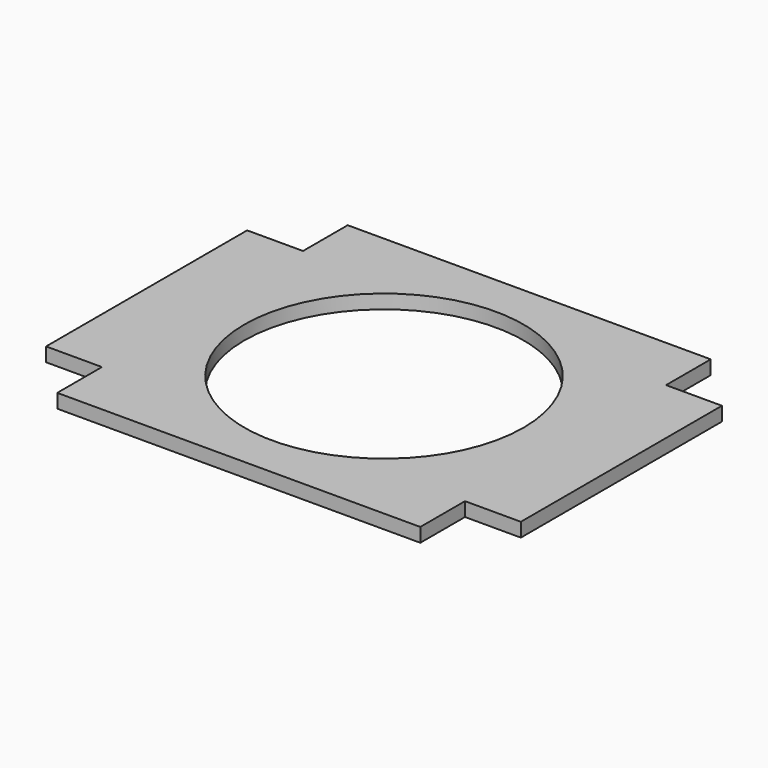
from build123d import *

# Parameters (mm, degrees)
F1_DEPTH = 12.7
F3_D     = 254


with BuildPart() as f1:
    # F0 (on Top) → F1 (new body)
    with BuildSketch(Plane.XY):
        Polygon((344.057809, 313.70795), (13.857809, 313.70795), (13.857809, 262.90795), (-36.942191, 262.90795), (-36.942191, 34.30795), (13.857809, 34.30795), (13.857809, -16.49205), (344.057809, -16.49205), (344.057809, 34.30795), (394.857809, 34.30795), (394.857809, 262.90795), (344.057809, 262.90795), align=None)
    extrude(amount=F1_DEPTH)

    # F3 (through all)
    with Locations(Plane.XY.offset(12.7)):
        with Locations((178.957809, 148.60795)):
            Hole(F3_D / 2)


solid = f1.part
